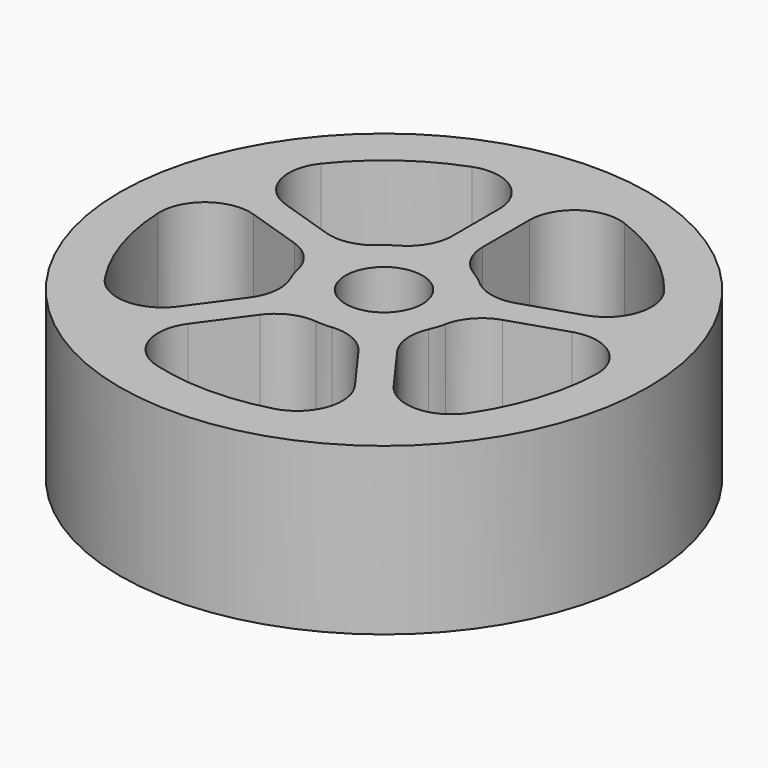
from build123d import *

# Parameters (mm, degrees)
F0_R     = 17.5
F0_R_2   = 2.55
F1_DEPTH = 11
F3_DEPTH = 25
F4_R     = 3


with BuildPart() as f1:
    # F0 (on Top) → F1 (new body)
    with BuildSketch(Plane.XY):
        Circle(F0_R)
        Circle(F0_R_2, mode=Mode.SUBTRACT)
    extrude(amount=F1_DEPTH)

    # F2 (on face) → F3 (cut)
    with BuildSketch(Plane.XY.offset(11)):
        with BuildLine():
            Line((-1, 4.898979), (-1, 14.465476))
            ThreePointArc((-1, 14.465476), (-8.522886, 11.730746), (-13.448468, 5.421134))
            Line((-13.448468, 5.421134), (-4.350189, 2.464924))
            ThreePointArc((-4.350189, 2.464924), (-2.938926, 4.045085), (-1, 4.898979))
        make_face()
        with BuildLine():
            Line((4.350189, 2.464924), (13.448468, 5.421134))
            ThreePointArc((13.448468, 5.421134), (8.522886, 11.730746), (1, 14.465476))
            Line((1, 14.465476), (1, 4.898979))
            ThreePointArc((1, 4.898979), (2.938926, 4.045085), (4.350189, 2.464924))
        make_face()
        with BuildLine():
            ThreePointArc((9.311611, -11.115031), (13.139033, -6.133174), (14.5, 0))
            ThreePointArc((14.5, 0), (14.391218, 1.772811), (14.066502, 3.519021))
            Line((14.066502, 3.519021), (4.968223, 0.562811))
            ThreePointArc((4.968223, 0.562811), (4.99205, 0.281854), (5, 0))
            ThreePointArc((5, 0), (4.660624, -1.810687), (3.688565, -3.375572))
            Line((3.688565, -3.375572), (9.311611, -11.115031))
        make_face()
        with BuildLine():
            ThreePointArc((-7.693577, -12.290601), (0, -14.5), (7.693577, -12.290601))
            Line((7.693577, -12.290601), (2.070531, -4.551143))
            ThreePointArc((2.070531, -4.551143), (0, -5), (-2.070531, -4.551143))
            Line((-2.070531, -4.551143), (-7.693577, -12.290601))
        make_face()
        with BuildLine():
            ThreePointArc((-14.066502, 3.519021), (-13.790319, -4.480746), (-9.311611, -11.115031))
            Line((-9.311611, -11.115031), (-3.688565, -3.375572))
            ThreePointArc((-3.688565, -3.375572), (-4.755283, -1.545085), (-4.968223, 0.562811))
            Line((-4.968223, 0.562811), (-14.066502, 3.519021))
        make_face()
    extrude(amount=-F3_DEPTH, mode=Mode.SUBTRACT)

    # F4
    f4_edges = [f1.edges().sort_by_distance(p)[0] for p in [
        (-1, 4.898979, 5.5),
        (-4.350189, 2.464924, 5.5),
        (1, 4.898979, 5.5),
        (4.350189, 2.464924, 5.5),
        (3.688565, -3.375572, 5.5),
        (4.968223, 0.562811, 5.5),
        (2.070531, -4.551143, 5.5),
        (-2.070531, -4.551143, 5.5),
        (-4.968223, 0.562811, 5.5),
        (-3.688565, -3.375572, 5.5),
        (13.448468, 5.421134, 5.5),
        (14.066502, 3.519021, 5.5),
        (1, 14.465476, 5.5),
        (-1, 14.465476, 5.5),
        (-13.448468, 5.421134, 5.5),
        (9.311611, -11.115031, 5.5),
        (-9.311611, -11.115031, 5.5),
        (-14.066502, 3.519021, 5.5),
        (7.693577, -12.290601, 5.5),
        (-7.693577, -12.290601, 5.5),
    ]]
    fillet(f4_edges, radius=F4_R)


solid = f1.part
